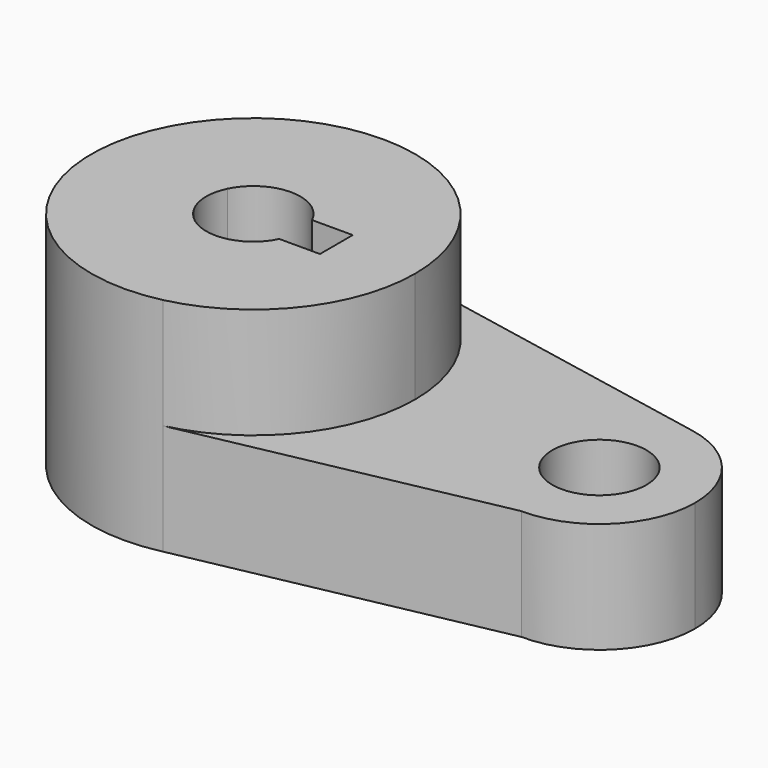
from build123d import *

# Parameters (mm, degrees)
F0_R     = 10.795
F1_DEPTH = 25.4
F2_DEPTH = 50.8


with BuildPart() as f1:
    # F0 (on Top) → F1 (new body)
    with BuildSketch(Plane.XY):
        with BuildLine():
            ThreePointArc((-9.718612, -4.699), (-10.795, 0), (-9.718612, 4.699))
            Line((-9.718612, 4.699), (-19.05, 4.699))
            Line((-19.05, 4.699), (-19.05, -4.699))
            Line((-19.05, -4.699), (-9.718612, -4.699))
        make_face()
        with BuildLine():
            ThreePointArc((8.266151, -36.196979), (29.029839, -23.147764), (37.128837, 0))
            ThreePointArc((37.128837, 0), (29.029839, 23.147764), (8.266151, 36.196979))
            ThreePointArc((8.266151, 36.196979), (-37.128837, 0), (8.266151, -36.196979))
        make_face()
        with BuildLine():
            ThreePointArc((-9.718612, 4.699), (0, 10.795), (9.718612, 4.699))
            Line((9.718612, 4.699), (19.05, 4.699))
            Line((19.05, 4.699), (19.05, -4.699))
            Line((19.05, -4.699), (9.718612, -4.699))
            ThreePointArc((9.718612, -4.699), (0, -10.795), (-9.718612, -4.699))
            Line((-9.718612, -4.699), (-19.05, -4.699))
            Line((-19.05, -4.699), (-19.05, 4.699))
            Line((-19.05, 4.699), (-9.718612, 4.699))
        make_face(mode=Mode.SUBTRACT)
        with BuildLine():
            ThreePointArc((101.319549, 0), (96.309698, 13.956332), (83.567604, 21.540318))
            ThreePointArc((83.567604, 21.540318), (57.549179, 2.279634), (79.026044, -21.941774))
            ThreePointArc((79.026044, -21.941774), (94.76827, -15.640027), (101.319549, 0))
        make_face()
        with Locations((79.375, 0)):
            Circle(F0_R, mode=Mode.SUBTRACT)
        with BuildLine():
            ThreePointArc((8.266151, 36.196979), (29.029839, 23.147764), (37.128837, 0))
            ThreePointArc((37.128837, 0), (29.029839, -23.147764), (8.266151, -36.196979))
            Line((8.266151, -36.196979), (79.026044, -21.941774))
            ThreePointArc((79.026044, -21.941774), (57.549179, 2.279634), (83.567604, 21.540318))
            Line((83.567604, 21.540318), (8.266151, 36.196979))
        make_face()
    extrude(amount=F1_DEPTH)

    # F0 (on Top) → F2 (join)
    with BuildSketch(Plane.XY):
        with BuildLine():
            ThreePointArc((8.266151, -36.196979), (29.029839, -23.147764), (37.128837, 0))
            ThreePointArc((37.128837, 0), (29.029839, 23.147764), (8.266151, 36.196979))
            ThreePointArc((8.266151, 36.196979), (-37.128837, 0), (8.266151, -36.196979))
        make_face()
        with BuildLine():
            ThreePointArc((-9.718612, 4.699), (0, 10.795), (9.718612, 4.699))
            Line((9.718612, 4.699), (19.05, 4.699))
            Line((19.05, 4.699), (19.05, -4.699))
            Line((19.05, -4.699), (9.718612, -4.699))
            ThreePointArc((9.718612, -4.699), (0, -10.795), (-9.718612, -4.699))
            Line((-9.718612, -4.699), (-19.05, -4.699))
            Line((-19.05, -4.699), (-19.05, 4.699))
            Line((-19.05, 4.699), (-9.718612, 4.699))
        make_face(mode=Mode.SUBTRACT)
        with BuildLine():
            ThreePointArc((-9.718612, -4.699), (-10.795, 0), (-9.718612, 4.699))
            Line((-9.718612, 4.699), (-19.05, 4.699))
            Line((-19.05, 4.699), (-19.05, -4.699))
            Line((-19.05, -4.699), (-9.718612, -4.699))
        make_face()
    extrude(amount=F2_DEPTH)


solid = f1.part
